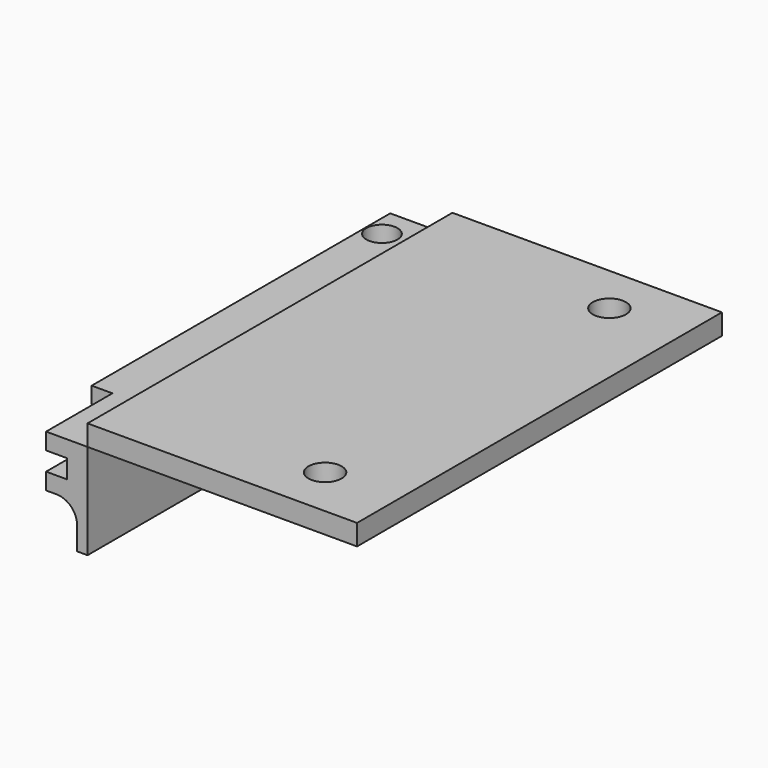
from build123d import *

# Parameters (mm, degrees)
F1_DEPTH = 44
F2_R     = 1.5
F3_DEPTH = 9.201
F4_W     = 2
F4_H     = 8
F5_DEPTH = 9.201
F6_R     = 2
F7_W     = 26
F7_H     = 44
F7_R     = 1.6
F8_DEPTH = 2


with BuildPart() as f1:
    # F0 (on Front) → F1 (new body)
    with BuildSketch(Plane.XZ):
        Polygon((-1, 0), (0, 0), (0, 9.2), (-6, 9.2), (-6, 7.6), (-2, 7.6), (-2, 5.8), (-6, 5.8), (-6, 4.2), (-1, 4.2), align=None)
    extrude(amount=F1_DEPTH)

    # F2 (on face) → F3 (cut, through all)
    with BuildSketch(Plane.XY.offset(9.2)):
        with Locations((-4.4, -3)):
            Circle(F2_R)
    extrude(amount=-F3_DEPTH, mode=Mode.SUBTRACT)

    # F4 (on face) → F5 (cut, through all)
    with BuildSketch(Plane.XY.offset(9.2)):
        with Locations((-5, -40)):
            Rectangle(F4_W, F4_H)
    extrude(amount=-F5_DEPTH, mode=Mode.SUBTRACT)

    # F6
    f6_edges = [f1.edges().sort_by_distance(p)[0] for p in [
        (-1, -22, 4.2),
    ]]
    fillet(f6_edges, radius=F6_R)


with BuildPart() as f8:
    # F7 (on face) → F8 (new body)
    with BuildSketch(Plane.XY.offset(9.2)):
        with Locations((13, -22)):
            Rectangle(F7_W, F7_H)
        with Locations((18.968, -39.068)):
            Circle(F7_R, mode=Mode.SUBTRACT)
        with Locations((18.968, -4.778)):
            Circle(F7_R, mode=Mode.SUBTRACT)
    extrude(amount=F8_DEPTH)


solid = Compound([f1.part, f8.part])
